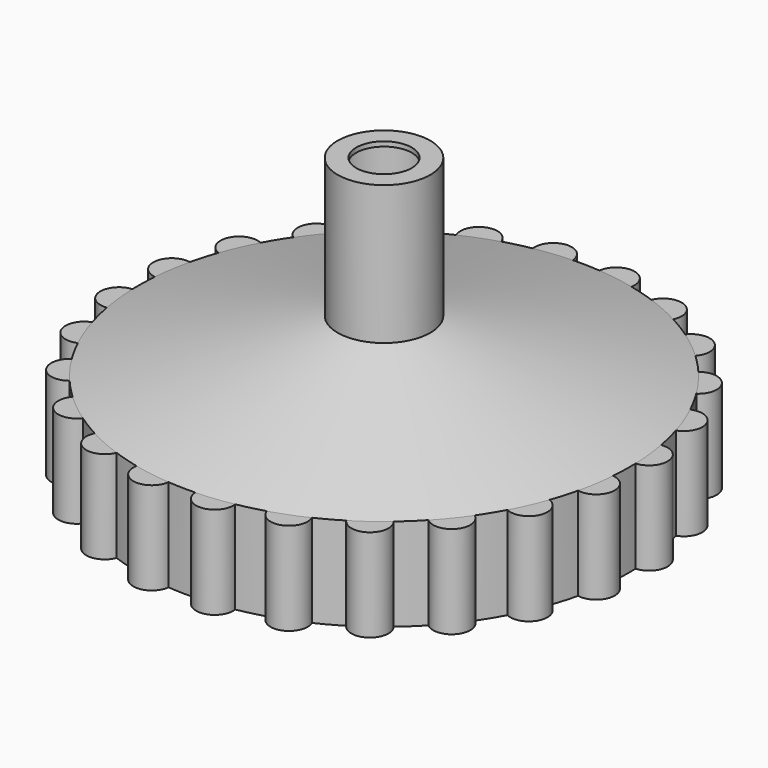
from build123d import *

# Parameters (mm, degrees)
F2_T     = -12.7
F3_R     = 76.2
F4_DEPTH = 781.3280539866
F6_DEPTH = 254
F7_COUNT = 24


with BuildPart() as f1:
    # F0 (on Front) → F1 (revolve)
    with BuildSketch(Plane.XZ):
        Polygon((-673.1, 0), (0, 0), (0, 781.3270539866), (-127, 781.3270539866), (-127, 400.3270539866), (-673.1, 254), align=None)
    revolve(axis=Axis((0, 0, 573.1903910637), (0, 0, 1)))

    # F2
    f2_openings = [f1.faces().sort_by_distance(p)[0] for p in [
        (0, 0, 0),
    ]]
    offset(amount=F2_T, openings=f2_openings, kind=Kind.INTERSECTION)

    # F3 (on face) → F4 (cut, through all)
    with BuildSketch(Plane.XY.offset(781.3270539866)):
        Circle(F3_R)
    extrude(amount=-F4_DEPTH, mode=Mode.SUBTRACT)

    # F5 (on face) → F6 (join)
    with BuildSketch(Plane(origin=(0, 0, 0), x_dir=(1, 0, 0), z_dir=(0, 0, -1))):
        with BuildLine():
            ThreePointArc((-644.4710936979, 194.2179687564), (-627.9881276024, 242.2695226199), (-607.9281554401, 288.9411148024))
            ThreePointArc((-607.9281554401, 288.9411148024), (-675.3834579875, 260.5540148931), (-644.4710936979, 194.2179687564))
        make_face()
    extrude(amount=-F6_DEPTH)

    # F7: F1 ×24 about axis
    f7_axis = Axis((0, 0, 768.6270539866), (0, 0, 1))


with BuildPart() as f1_1:
    add(f1.part)
    for i in range(1, F7_COUNT):
        add(f1.part.rotate(f7_axis, i * 360 / F7_COUNT))


solid = f1_1.part
